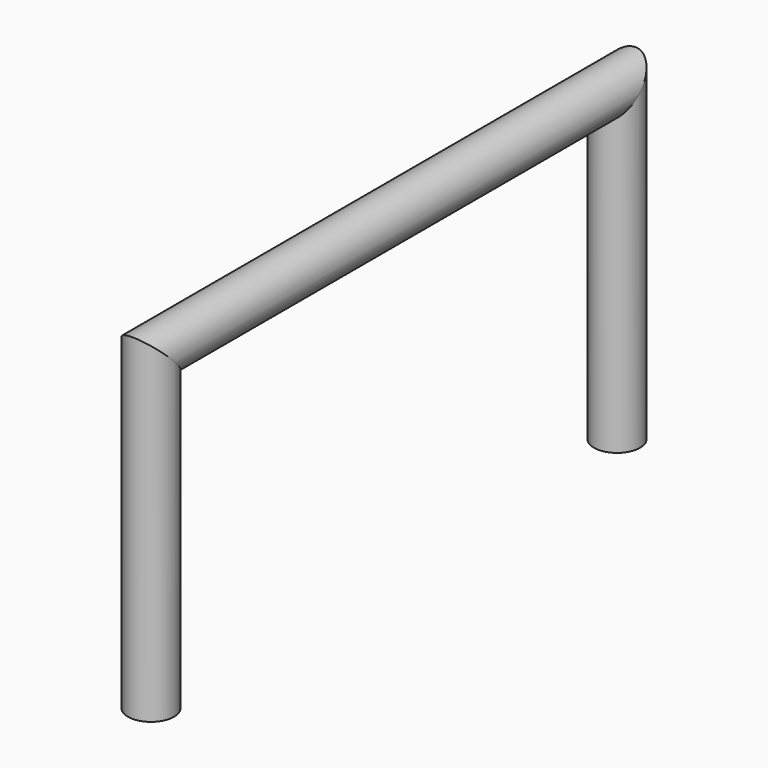
from build123d import *

# Parameters (mm, degrees)
F1_R = 3.175


with BuildPart() as f2:
    # F2: sweep along a path in F0
    with BuildLine(Plane.YZ) as f2_path:
        Line((40.5962206423, 0), (40.5962206423, 43.0743321776))
        Line((40.5962206423, 43.0743321776), (-39.6029166877, 43.0743321776))
        Line((-39.6029166877, 43.0743321776), (-39.6029166877, 0))
    # F1 (on Top) → F2 (sweep)
    with BuildSketch(Plane.XY):
        with Locations((0, 40.5962206423)):
            Circle(F1_R)
    sweep(path=f2_path.line, transition=Transition.RIGHT)


solid = f2.part
